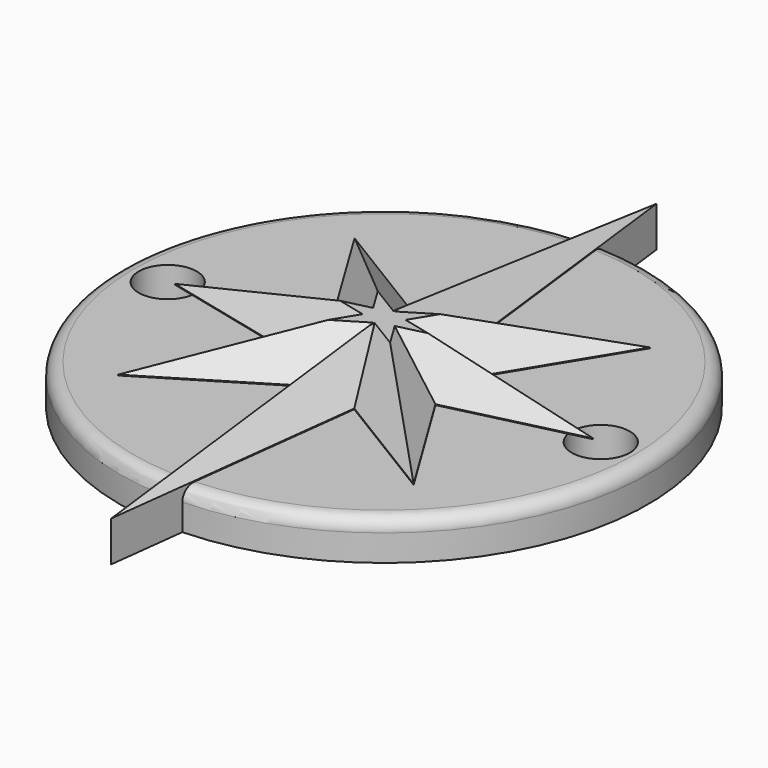
from build123d import *

# Parameters (mm, degrees)
F2_DEPTH = 7.62
F3_R     = 25.4
F4_DEPTH = 3.81
F5_SIZE  = 3.7338
F6_R     = 1.27
F9_D     = 5.588
F9_DEPTH = 127
F9_TIP   = 1.6788045696


with BuildPart() as f2:
    # F1 (on Top) → F2 (new body)
    with BuildSketch(Plane.XY):
        Polygon((-3.0674997251, -7.4159256183), (0, -32.8098908067), (3.0712168664, -7.4155884795), (14.2346806824, -14.2299178988), (7.4049378745, -3.0691174325), (20.1237425208, 0), (7.4238278903, 3.0710902065), (14.2239863053, 14.2202461138), (3.068682272, 7.4126794934), (0, 32.8086838126), (-3.0691300053, 7.4164932594), (-14.2189133912, 14.2328040674), (-7.413723506, 3.0703686643), (-20.1198514551, 0), (-7.4060442857, -3.0691174325), (-14.2189133912, -14.1971036792), align=None)
    extrude(amount=F2_DEPTH)

    # F3 (on Top) → F4 (join)
    with BuildSketch(Plane.XY):
        Circle(F3_R)
    extrude(amount=F4_DEPTH)

    # F5
    f5_edges = [f2.edges().sort_by_distance(p)[0] for p in [
        (-10.812479, -8.633111, 7.62),
        (-8.643207, -10.806515, 7.62),
        (-1.53375, -20.112908, 7.62),
        (1.535608, -20.11274, 7.62),
        (8.652949, -10.822753, 7.62),
        (10.819809, -8.649518, 7.62),
        (13.76434, -1.534559, 7.62),
        (13.773785, 1.535545, 7.62),
        (10.823907, 8.645668, 7.62),
        (8.646334, 10.816463, 7.62),
        (1.534341, 20.110682, 7.62),
        (-1.534565, 20.112589, 7.62),
        (-8.644022, 10.824649, 7.62),
        (-10.816318, 8.651586, 7.62),
        (-13.766787, 1.535184, 7.62),
        (-13.762948, -1.534559, 7.62),
    ]]
    chamfer(f5_edges, length=F5_SIZE)

    # F6
    f6_edges = [f2.edges().sort_by_distance(p)[0] for p in [
        (25.4, 0.000476, 3.81),
        (-25.4, -0.000198, 3.81),
    ]]
    fillet(f6_edges, radius=F6_R)

    # F9 (one way)
    with BuildSketch(Plane.XY.offset(3.81)):
        with Locations((-20.8135005087, 0), (20.8601150662, 0)):
            Circle(F9_D / 2)
    extrude(amount=-F9_DEPTH, mode=Mode.SUBTRACT)
    with Locations(Plane.XY.offset(3.81)):
        with Locations((-20.8135005087, 0), (20.8601150662, 0)):
            with Locations((0, 0, -(F9_DEPTH + F9_TIP / 2))):  # 118° drill point
                Cone(0, F9_D / 2, F9_TIP, mode=Mode.SUBTRACT)


solid = f2.part
